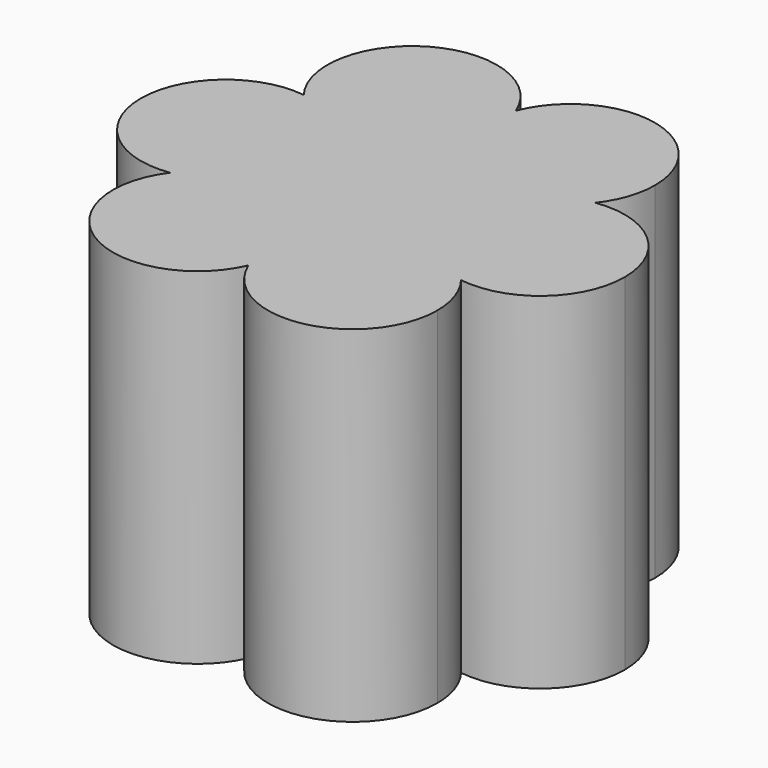
from build123d import *

# Parameters (mm, degrees)
F1_DEPTH = 5


with BuildPart() as f1:
    # F0 (on Top) → F1 (new body)
    with BuildSketch(Plane.XY):
        with BuildLine():
            ThreePointArc((-0.0032454835, 2.4100617583), (-1.7444594295, 3.0227098771), (-2.115982294, 1.2146350766))
            ThreePointArc((-2.115982294, 1.2146350766), (-1.660800532, 1.0598981147), (-1.3002209241, 0.7419102056))
            ThreePointArc((-1.3002209241, 0.7419102056), (-0.5166175034, 0.9027342531), (0.0006491683, 1.5129259324))
            ThreePointArc((0.0006491683, 1.5129259324), (-0.0863815539, 1.9611244808), (-0.0032454835, 2.4100617583))
        make_face()
        with BuildLine():
            ThreePointArc((-2.115982294, 1.2146350766), (-3.083031036, 0.9207121401), (-3.5, 0))
            ThreePointArc((-3.5, 0), (-3.0790448546, -0.9241952563), (-2.1054908215, -1.213215413))
            ThreePointArc((-2.1054908215, -1.213215413), (-1.7471466082, -0.8904039187), (-1.2919668901, -0.7309383728))
            ThreePointArc((-1.2919668901, -0.7309383728), (-1.1120639399, -0.3849736616), (-1.05, 0))
            ThreePointArc((-1.05, 0), (-1.1142396096, 0.3914847583), (-1.3002209241, 0.7419102056))
            ThreePointArc((-1.3002209241, 0.7419102056), (-1.7554026862, 0.8966471675), (-2.115982294, 1.2146350766))
        make_face()
        with BuildLine():
            ThreePointArc((-1.3002209241, 0.7419102056), (-1.660800532, 1.0598981147), (-2.115982294, 1.2146350766))
            ThreePointArc((-2.115982294, 1.2146350766), (-1.7554026862, 0.8966471675), (-1.3002209241, 0.7419102056))
        make_face()
        with BuildLine():
            ThreePointArc((-1.2919668901, -0.7309383728), (-1.7471466082, -0.8904039187), (-2.1054908215, -1.213215413))
            ThreePointArc((-2.1054908215, -1.213215413), (-1.6503111034, -1.0537498671), (-1.2919668901, -0.7309383728))
        make_face()
        with BuildLine():
            ThreePointArc((-1.2919668901, -0.7309383728), (-1.6503111034, -1.0537498671), (-2.1054908215, -1.213215413))
            ThreePointArc((-2.1054908215, -1.213215413), (-1.7359979287, -3.0044336554), (0.0011148123, -2.4322211823))
            ThreePointArc((0.0011148123, -2.4322211823), (-0.0939762845, -1.9509044509), (0.0074248045, -1.4708774395))
            ThreePointArc((0.0074248045, -1.4708774395), (-0.5162756494, -0.8796500011), (-1.2919668901, -0.7309383728))
        make_face()
        with BuildLine():
            ThreePointArc((2.3559973284, -1.958944836), (2.2909030568, -1.5649350629), (2.1025382242, -1.212799215))
            ThreePointArc((2.1025382242, -1.212799215), (1.6572404008, -1.0578270547), (1.3034591042, -0.746145621))
            ThreePointArc((1.3034591042, -0.746145621), (0.5331160977, -0.8897568104), (0.0074248045, -1.4708774395))
            ThreePointArc((0.0074248045, -1.4708774395), (0.0785275261, -1.702783823), (0.1025422884, -1.9441537858))
            ThreePointArc((0.1025422884, -1.9441537858), (0.0769174053, -2.1934013116), (0.0011148123, -2.4322211823))
            ThreePointArc((0.0011148123, -2.4322211823), (1.3723672911, -3.1599300737), (2.3559973284, -1.958944836))
        make_face()
        with BuildLine():
            ThreePointArc((2.1025382242, -1.212799215), (3.0779194619, -0.9251731393), (3.5, 0))
            ThreePointArc((3.5, 0), (3.0786929463, 0.9245012969), (2.1045671053, 1.2130859938))
            ThreePointArc((2.1045671053, 1.2130859938), (1.7515384972, 0.905810587), (1.3090397977, 0.7533564147))
            ThreePointArc((1.3090397977, 0.7533564147), (1.0500084837, 0.0045590483), (1.3034591042, -0.746145621))
            ThreePointArc((1.3034591042, -0.746145621), (1.7487569276, -0.9011177813), (2.1025382242, -1.212799215))
        make_face()
        with BuildLine():
            ThreePointArc((1.3090397977, 0.7533564147), (1.6620684058, 1.0606318215), (2.1045671053, 1.2130859938))
            ThreePointArc((2.1045671053, 1.2130859938), (2.2970382233, 1.5681185753), (2.363606903, 1.9664424086))
            ThreePointArc((2.363606903, 1.9664424086), (1.3642790397, 3.170476082), (-0.0032454835, 2.4100617583))
            ThreePointArc((-0.0032454835, 2.4100617583), (0.0618394297, 2.1874422019), (0.0837967819, 1.9565452822))
            ThreePointArc((0.0837967819, 1.9565452822), (0.0628304553, 1.7308731455), (0.0006491683, 1.5129259324))
            ThreePointArc((0.0006491683, 1.5129259324), (0.5235763818, 0.9070263156), (1.3090397977, 0.7533564147))
        make_face()
        with BuildLine():
            ThreePointArc((0.0837967819, 1.9565452822), (0.0618394297, 2.1874422019), (-0.0032454835, 2.4100617583))
            ThreePointArc((-0.0032454835, 2.4100617583), (-0.0863815539, 1.9611244808), (0.0006491683, 1.5129259324))
            ThreePointArc((0.0006491683, 1.5129259324), (0.0628304553, 1.7308731455), (0.0837967819, 1.9565452822))
        make_face()
        with BuildLine():
            ThreePointArc((1.3090397977, 0.7533564147), (1.7515384972, 0.905810587), (2.1045671053, 1.2130859938))
            ThreePointArc((2.1045671053, 1.2130859938), (1.6620684058, 1.0606318215), (1.3090397977, 0.7533564147))
        make_face()
        with BuildLine():
            ThreePointArc((1.3034591042, -0.746145621), (1.6572404008, -1.0578270547), (2.1025382242, -1.212799215))
            ThreePointArc((2.1025382242, -1.212799215), (1.7487569276, -0.9011177813), (1.3034591042, -0.746145621))
        make_face()
        with BuildLine():
            ThreePointArc((0.0074248045, -1.4708774395), (-0.0939762845, -1.9509044509), (0.0011148123, -2.4322211823))
            ThreePointArc((0.0011148123, -2.4322211823), (0.0769174053, -2.1934013116), (0.1025422884, -1.9441537858))
            ThreePointArc((0.1025422884, -1.9441537858), (0.0785275261, -1.702783823), (0.0074248045, -1.4708774395))
        make_face()
        with BuildLine():
            ThreePointArc((1.3034591042, -0.746145621), (1.0500084837, 0.0045590483), (1.3090397977, 0.7533564147))
            ThreePointArc((1.3090397977, 0.7533564147), (0.5235763818, 0.9070263156), (0.0006491683, 1.5129259324))
            ThreePointArc((0.0006491683, 1.5129259324), (-0.5166175034, 0.9027342531), (-1.3002209241, 0.7419102056))
            ThreePointArc((-1.3002209241, 0.7419102056), (-1.1142396096, 0.3914847583), (-1.05, 0))
            ThreePointArc((-1.05, 0), (-1.1120639399, -0.3849736616), (-1.2919668901, -0.7309383728))
            ThreePointArc((-1.2919668901, -0.7309383728), (-0.5162756494, -0.8796500011), (0.0074248045, -1.4708774395))
            ThreePointArc((0.0074248045, -1.4708774395), (0.5331160977, -0.8897568104), (1.3034591042, -0.746145621))
        make_face()
    extrude(amount=F1_DEPTH)


solid = f1.part
